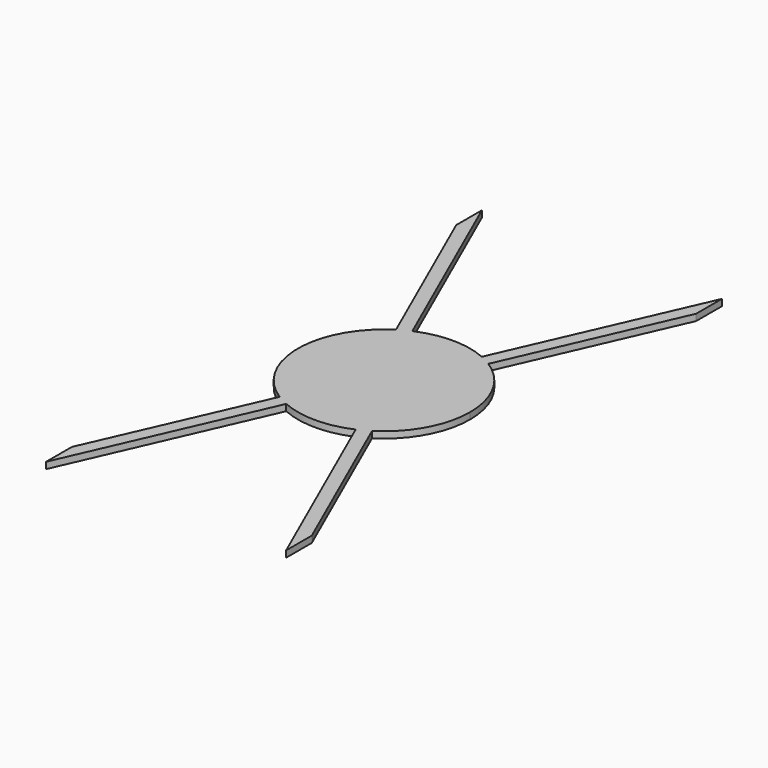
from build123d import *

# Parameters (mm, degrees)
F1_DEPTH = 3.175


with BuildPart() as f1:
    # F0 (on Top) → F1 (new body)
    with BuildSketch(Plane.XY):
        with BuildLine():
            ThreePointArc((81.351365, -168.93669), (95.692172, -153.651573), (100.901516, -133.34994))
            ThreePointArc((100.901516, -133.34994), (95.692172, -113.048307), (81.351365, -97.763191))
            ThreePointArc((81.351365, -97.763191), (78.599393, -96.157081), (75.733991, -94.763378))
            ThreePointArc((75.733991, -94.763378), (58.737516, -91.18594), (41.741042, -94.763378))
            ThreePointArc((41.741042, -94.763378), (38.87564, -96.157081), (36.123668, -97.763191))
            ThreePointArc((36.123668, -97.763191), (16.573516, -133.34994), (36.123668, -168.93669))
            ThreePointArc((36.123668, -168.93669), (38.87564, -170.542799), (41.741042, -171.936502))
            ThreePointArc((41.741042, -171.936502), (58.737516, -175.51394), (75.733991, -171.936502))
            ThreePointArc((75.733991, -171.936502), (78.599393, -170.542799), (81.351365, -168.93669))
        make_face()
        with BuildLine():
            ThreePointArc((75.733991, -94.763378), (78.599393, -96.157081), (81.351365, -97.763191))
            Line((81.351365, -97.763191), (117.475033, -15.752761))
            Line((117.475033, -15.752761), (117.475033, 0))
            Line((117.475033, 0), (75.733991, -94.763378))
        make_face()
        with BuildLine():
            Line((117.475033, -250.947119), (81.351365, -168.93669))
            ThreePointArc((81.351365, -168.93669), (78.599393, -170.542799), (75.733991, -171.936502))
            Line((75.733991, -171.936502), (117.475033, -266.69988))
            Line((117.475033, -266.69988), (117.475033, -250.947119))
        make_face()
        with BuildLine():
            ThreePointArc((36.123668, -97.763191), (38.87564, -96.157081), (41.741042, -94.763378))
            Line((41.741042, -94.763378), (0, 0))
            Line((0, 0), (0, -15.752761))
            Line((0, -15.752761), (36.123668, -97.763191))
        make_face()
        with BuildLine():
            Line((0, -266.69988), (41.741042, -171.936502))
            ThreePointArc((41.741042, -171.936502), (38.87564, -170.542799), (36.123668, -168.93669))
            Line((36.123668, -168.93669), (0, -250.947119))
            Line((0, -250.947119), (0, -266.69988))
        make_face()
    extrude(amount=-F1_DEPTH)


solid = f1.part
